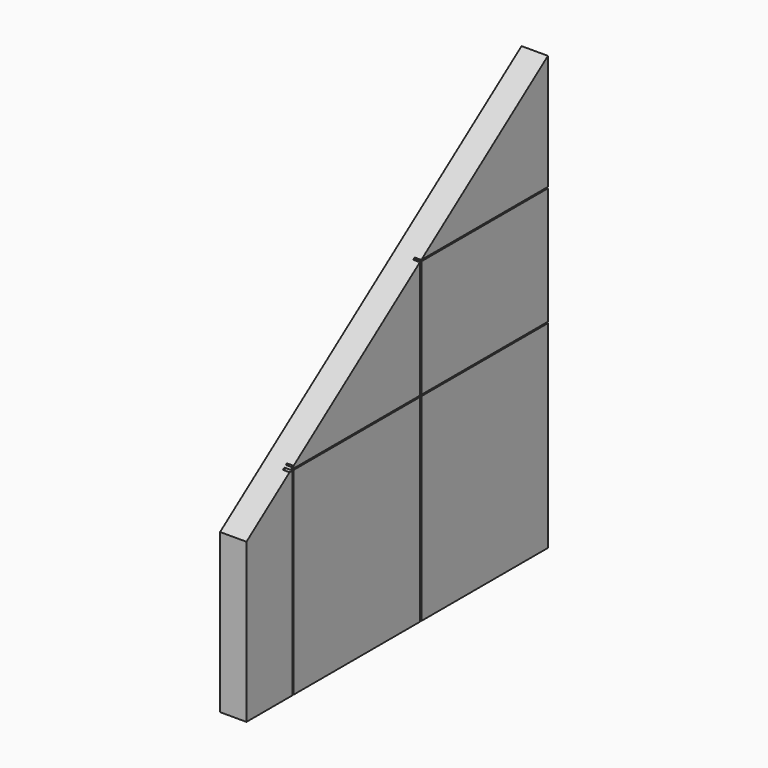
from build123d import *

# Parameters (mm, degrees)
F1_DEPTH = 100
F2_W     = 5
F2_H     = 581
F2_W_2   = 1636.7888212204
F2_H_2   = 5
F2_W_3   = 600
F2_H_3   = 1200
F2_W_4   = 607.3750638962
F3_DEPTH = 25
F4_W     = 2650
F4_H     = 5
F5_DEPTH = 25


with BuildPart() as f1:
    # F0 (on Right) → F1 (new body)
    with BuildSketch(Plane.YZ):
        Polygon((389.0280389786, 634.7590853661), (389.0280389786, 33.4885828197), (1817.3750638962, 33.4885828197), (1817.3750638962, 1675.6669797748), align=None)
    extrude(amount=-F1_DEPTH)

    # F2 (on Right) → F3 (cut)
    with BuildSketch(Plane.YZ):
        with Locations((1214.8750638962, 1528.9885828197)):
            Rectangle(F2_W, F2_H)
        with Locations((2035.7694745064, 1235.9885828197)):
            Rectangle(F2_W_2, F2_H_2)
        with Locations((1214.8750638962, 1235.9885828197)):
            Rectangle(F2_W, F2_H_2)
        with Locations((912.3750638962, 1235.9885828197)):
            Rectangle(F2_W_3, F2_H_2)
        with Locations((1214.8750638962, 633.4885828197)):
            Rectangle(F2_W, F2_H_3)
        with Locations((609.8750638962, 1528.9885828197)):
            Rectangle(F2_W, F2_H)
        with Locations((609.8750638962, 1235.9885828197)):
            Rectangle(F2_W, F2_H_2)
        with Locations((609.8750638962, 633.4885828197)):
            Rectangle(F2_W, F2_H_3)
        with Locations((303.6875319481, 1235.9885828197)):
            Rectangle(F2_W_4, F2_H_2)
    extrude(amount=-F3_DEPTH, mode=Mode.SUBTRACT)

    # F4 (on face) → F5 (cut)
    with BuildSketch(Plane.YZ):
        with Locations((1624.0280389786, 785.9885828197)):
            Rectangle(F4_W, F4_H)
    extrude(amount=-F5_DEPTH, mode=Mode.SUBTRACT)


solid = f1.part
